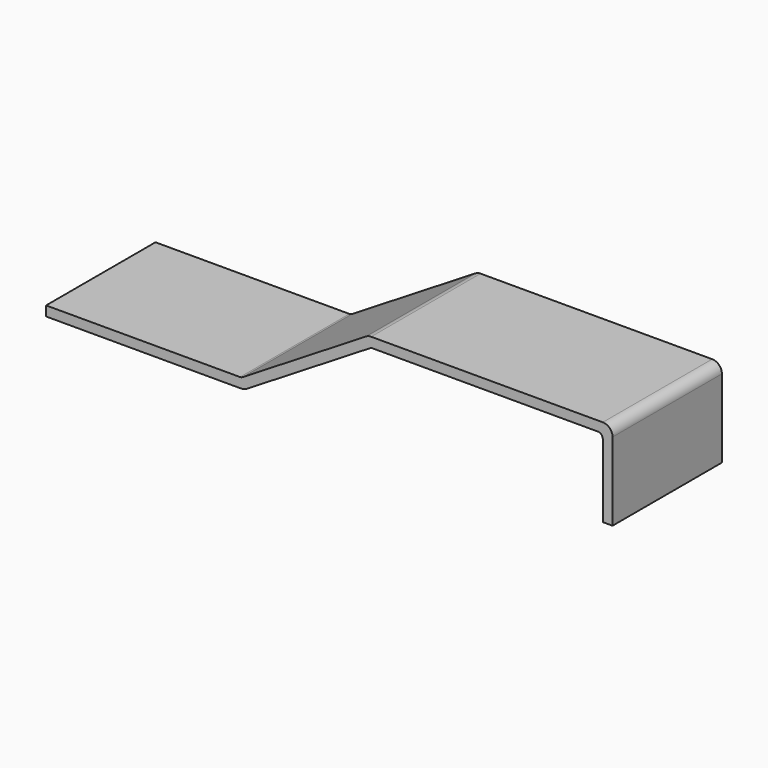
from build123d import *

# Parameters (mm, degrees)
F1_DEPTH = 28
F2_R     = 2
F3_R     = 1


with BuildPart() as f1:
    # F0 (on Front) → F1 (new body)
    with BuildSketch(Plane.XZ):
        Polygon((-51.000001, 2), (-51.000001, 0), (-10.433916, 0), (15.566084, 16), (62.999999, 16), (62.999999, 0), (64.999999, 0), (64.999999, 18), (14.999999, 18), (-11.000001, 2), align=None)
    extrude(amount=F1_DEPTH)

    # F2
    f2_edges = [f1.edges().sort_by_distance(p)[0] for p in [
        (14.999999, -14, 18),
        (64.999999, -14, 18),
        (-10.433916, -14, 0),
    ]]
    fillet(f2_edges, radius=F2_R)

    # F3
    f3_edges = [f1.edges().sort_by_distance(p)[0] for p in [
        (-11.000001, -14, 2),
        (62.999999, -14, 16),
        (15.566084, -14, 16),
    ]]
    fillet(f3_edges, radius=F3_R)


solid = f1.part
